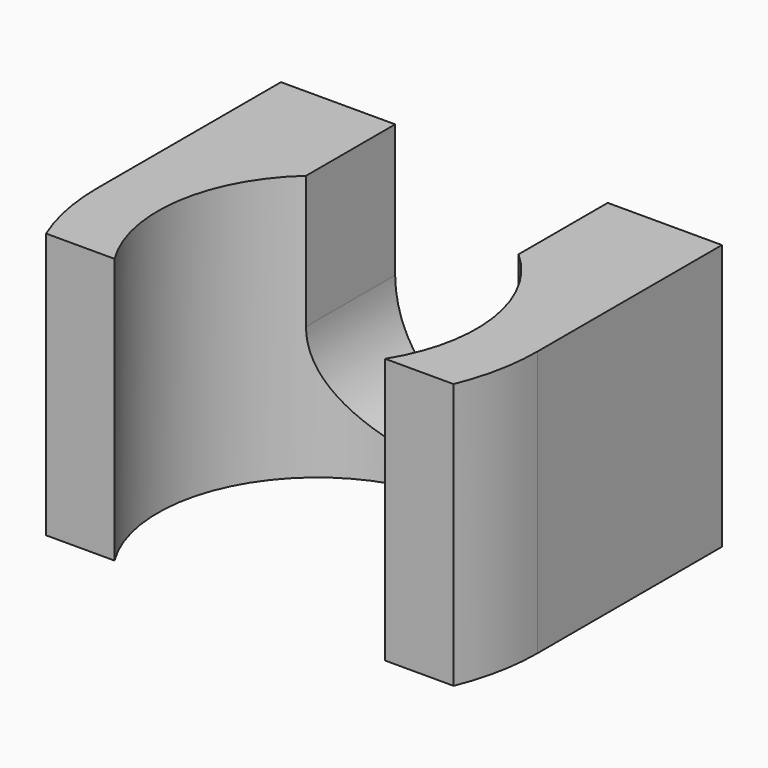
from build123d import *

# Parameters (mm, degrees)
F1_DEPTH = 150
F3_DEPTH = 152.654


with BuildPart() as f1:
    # F0 (on Top) → F1 (new body)
    with BuildSketch(Plane.XY):
        with BuildLine():
            ThreePointArc((-76.40049, -47.570632), (0, 90), (76.40049, -47.570632))
            Line((76.40049, -47.570632), (115.035317, -47.570632))
            ThreePointArc((115.035317, -47.570632), (122.098452, -24.249893), (124.483289, 0))
            Line((124.483289, 0), (124.483289, 130))
            Line((124.483289, 130), (-124.483289, 130))
            Line((-124.483289, 130), (-124.483289, 0))
            ThreePointArc((-124.483289, 0), (-122.098452, -24.249893), (-115.035317, -47.570632))
            Line((-115.035317, -47.570632), (-76.40049, -47.570632))
        make_face()
    extrude(amount=F1_DEPTH)

    # F2 (on face) → F3 (cut)
    with BuildSketch(Plane(origin=(0, 130, 0), x_dir=(-1, 0, 0), z_dir=(0, 1, 0))):
        with BuildLine():
            Line((-60, 150), (-60, 75))
            ThreePointArc((-60, 75), (0, 15), (60, 75))
            Line((60, 75), (60, 150))
            Line((60, 150), (-60, 150))
        make_face()
    extrude(amount=-F3_DEPTH, mode=Mode.SUBTRACT)


solid = f1.part
